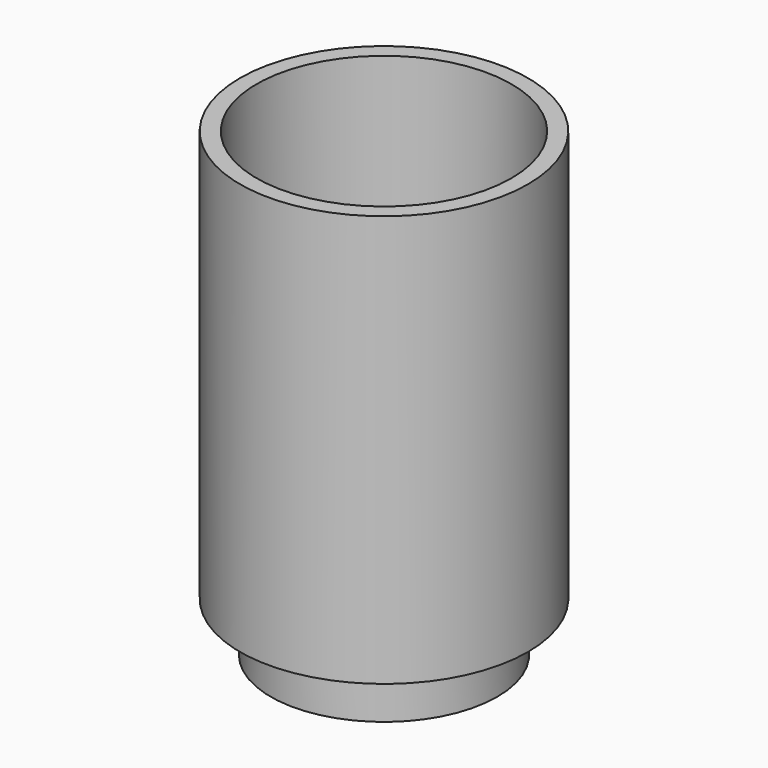
from build123d import *

# Parameters (mm, degrees)
F0_R     = 22.198621642
F1_DEPTH = 63.5
F2_R     = 17.4774608617
F3_DEPTH = 7.62
F4_T     = -2.54


with BuildPart() as f1:
    # F0 (on Top) → F1 (new body)
    with BuildSketch(Plane.XY):
        with Locations((-14.8193594068, 37.2680351138)):
            Circle(F0_R)
    extrude(amount=F1_DEPTH)

    # F2 (on face) → F3 (join)
    with BuildSketch(Plane(origin=(0, 0, 0), x_dir=(1, 0, 0), z_dir=(0, 0, -1))):
        with Locations((-14.8193594068, -37.2680351138)):
            Circle(F2_R)
    extrude(amount=F3_DEPTH)

    # F4
    f4_openings = [f1.faces().sort_by_distance(p)[0] for p in [
        (-14.819359, 37.268035, 63.5),
    ]]
    offset(amount=F4_T, openings=f4_openings, kind=Kind.INTERSECTION)


solid = f1.part
